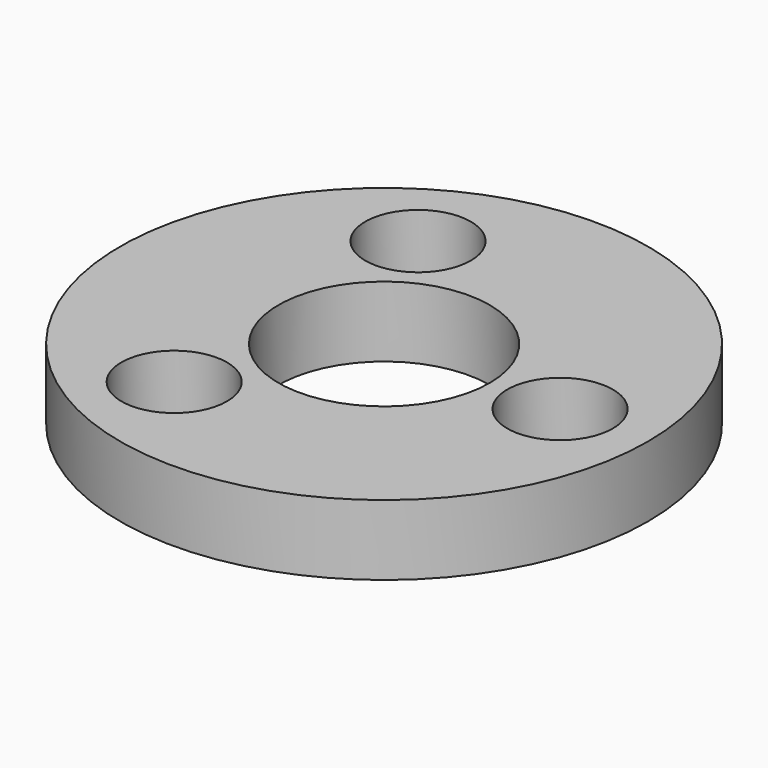
from build123d import *

# Parameters (mm, degrees)
SKETCH_1_R     = 37.5
PAD_1_DEPTH    = 10
SKETCH_2_R     = 15
POCKET_2_DEPTH = 10.001
SKETCH_3_R     = 7.5
POCKET_3_DEPTH = 10.001
SKETCH_4_R     = 4.5
POCKET_4_DEPTH = 10.001
SKETCH_5_R     = 7.5
POCKET_5_DEPTH = 10.001
SKETCH_6_R     = 4.5
POCKET_6_DEPTH = 10.001
SKETCH_7_R     = 7.5
POCKET_7_DEPTH = 10.001
SKETCH_8_R     = 4.5
POCKET_8_DEPTH = 10.001


with BuildPart() as part:
    # Sketch_1 → Pad_1 (new body)
    with BuildSketch(Plane.XY):
        Circle(SKETCH_1_R)
    extrude(amount=PAD_1_DEPTH)

    # Sketch_2 (on Face3 of Pad_1) → Pocket_2 (cut, through all)
    with BuildSketch(Plane.XY.offset(10)):
        Circle(SKETCH_2_R)
    extrude(amount=-POCKET_2_DEPTH, mode=Mode.SUBTRACT)

    # Sketch_3 (on Face3 of Pocket_2) → Pocket_3 (cut, through all)
    with BuildSketch(Plane.XY.offset(10)):
        with Locations((25, 0)):
            Circle(SKETCH_3_R)
    extrude(amount=-POCKET_3_DEPTH, mode=Mode.SUBTRACT)

    # Sketch_4 (on Face3 of Pocket_3) → Pocket_4 (cut, through all)
    with BuildSketch(Plane.XY.offset(10)):
        with Locations((25, 0)):
            Circle(SKETCH_4_R)
    extrude(amount=-POCKET_4_DEPTH, mode=Mode.SUBTRACT)

    # Sketch_5 (on Face3 of Pocket_4) → Pocket_5 (cut, through all)
    with BuildSketch(Plane.XY.offset(10)):
        with Locations((-12.5, 21.65)):
            Circle(SKETCH_5_R)
    extrude(amount=-POCKET_5_DEPTH, mode=Mode.SUBTRACT)

    # Sketch_6 (on Face3 of Pocket_5) → Pocket_6 (cut, through all)
    with BuildSketch(Plane.XY.offset(10)):
        with Locations((-12.5, 21.65)):
            Circle(SKETCH_6_R)
    extrude(amount=-POCKET_6_DEPTH, mode=Mode.SUBTRACT)

    # Sketch_7 (on Face3 of Pocket_6) → Pocket_7 (cut, through all)
    with BuildSketch(Plane.XY.offset(10)):
        with Locations((-12.5, -21.65)):
            Circle(SKETCH_7_R)
    extrude(amount=-POCKET_7_DEPTH, mode=Mode.SUBTRACT)

    # Sketch_8 (on Face3 of Pocket_7) → Pocket_8 (cut, through all)
    with BuildSketch(Plane.XY.offset(10)):
        with Locations((-12.5, -21.65)):
            Circle(SKETCH_8_R)
    extrude(amount=-POCKET_8_DEPTH, mode=Mode.SUBTRACT)


solid = part.part
